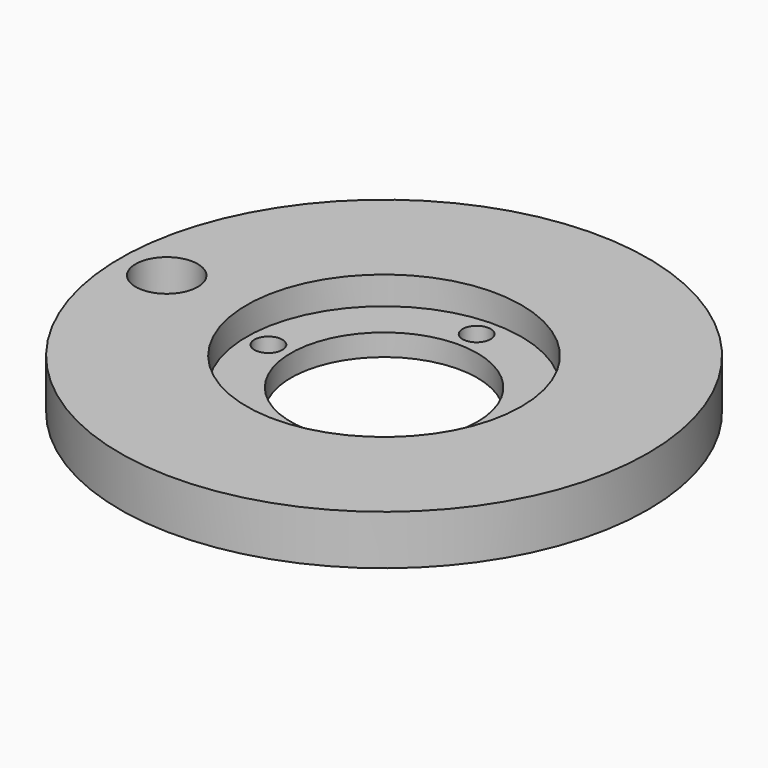
from build123d import *

# Parameters (mm, degrees)
F0_R     = 85
F0_R_2   = 4.5
F0_R_3   = 10
F0_R_4   = 30
F1_DEPTH = 16
F2_R     = 44.25
F2_R_2   = 4.5
F2_R_3   = 30
F3_DEPTH = 9


with BuildPart() as f1:
    # F0 (on Top) → F1 (new body)
    with BuildSketch(Plane.XY):
        Circle(F0_R)
        with Locations((0, -37.25)):
            Circle(F0_R_2, mode=Mode.SUBTRACT)
        with Locations((-70, 0)):
            Circle(F0_R_3, mode=Mode.SUBTRACT)
        with Locations((-37.25, 0)):
            Circle(F0_R_2, mode=Mode.SUBTRACT)
        Circle(F0_R_4, mode=Mode.SUBTRACT)
        with Locations((37.25, 0)):
            Circle(F0_R_2, mode=Mode.SUBTRACT)
        with Locations((0, 37.25)):
            Circle(F0_R_2, mode=Mode.SUBTRACT)
    extrude(amount=F1_DEPTH)

    # F2 (on face) → F3 (cut)
    with BuildSketch(Plane.XY.offset(16)):
        Circle(F2_R)
        with Locations((0, -37.25)):
            Circle(F2_R_2, mode=Mode.SUBTRACT)
        with Locations((-37.25, 0)):
            Circle(F2_R_2, mode=Mode.SUBTRACT)
        Circle(F2_R_3, mode=Mode.SUBTRACT)
        with Locations((37.25, 0)):
            Circle(F2_R_2, mode=Mode.SUBTRACT)
        with Locations((0, 37.25)):
            Circle(F2_R_2, mode=Mode.SUBTRACT)
    extrude(amount=-F3_DEPTH, mode=Mode.SUBTRACT)


solid = f1.part
